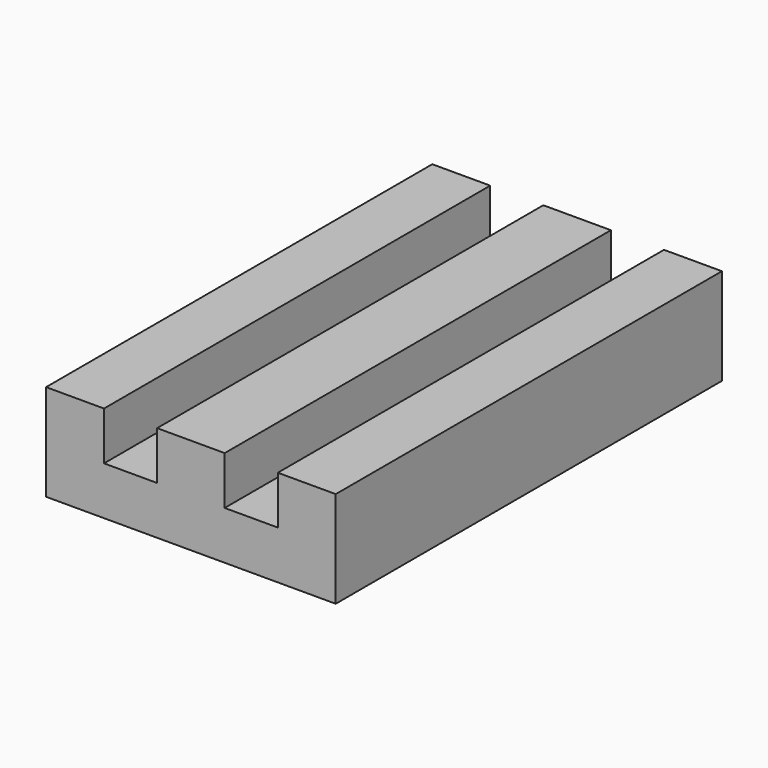
from build123d import *

# Parameters (mm, degrees)
F0_W     = 30
F0_H     = 50
F1_DEPTH = 5
F2_W     = 6
F2_H     = 50
F2_W_2   = 7
F3_DEPTH = 5


with BuildPart() as f1:
    # F0 (on Top) → F1 (new body)
    with BuildSketch(Plane.XY):
        with Locations((15, 25)):
            Rectangle(F0_W, F0_H)
    extrude(amount=F1_DEPTH)

    # F2 (on face) → F3 (join)
    with BuildSketch(Plane.XY.offset(5)):
        with Locations((3, 25)):
            Rectangle(F2_W, F2_H)
        with Locations((15, 25)):
            Rectangle(F2_W_2, F2_H)
        with Locations((27, 25)):
            Rectangle(F2_W, F2_H)
    extrude(amount=F3_DEPTH)


solid = f1.part
